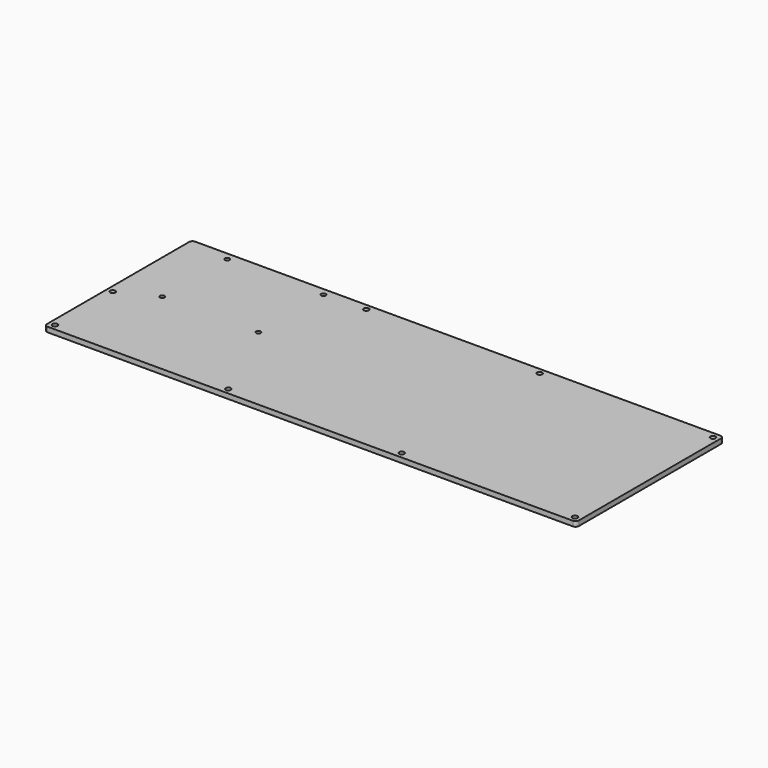
from build123d import *

# Parameters (mm, degrees)
SKETCH001_R   = 1.55
SKETCH001_R_2 = 1.375
PAD_DEPTH     = 3


with BuildPart() as part:
    # Sketch001 → Pad (new body)
    with BuildSketch(Plane.XY):
        with BuildLine():
            Line((-15.4775, 17.4775), (301.2275, 17.4775))
            ThreePointArc((303.2275, 15.4775), (302.641714, 16.891714), (301.2275, 17.4775))
            Line((303.2275, 15.4775), (303.2275, -91.6775))
            ThreePointArc((301.2275, -93.6775), (302.641714, -93.091714), (303.2275, -91.6775))
            Line((301.2275, -93.6775), (-15.4775, -93.6775))
            ThreePointArc((-17.4775, -91.6775), (-16.891714, -93.091714), (-15.4775, -93.6775))
            Line((-17.4775, -91.6775), (-17.4775, 15.4775))
            ThreePointArc((-15.4775, 17.4775), (-16.891714, 16.891714), (-17.4775, 15.4775))
        make_face()
        with Locations((-13.9055, -90.1055)):
            Circle(SKETCH001_R, mode=Mode.SUBTRACT)
        with Locations((195.135167, -90.1055)):
            Circle(SKETCH001_R, mode=Mode.SUBTRACT)
        with Locations((299.6555, -90.1055)):
            Circle(SKETCH001_R, mode=Mode.SUBTRACT)
        with Locations((90.614833, -90.1055)):
            Circle(SKETCH001_R, mode=Mode.SUBTRACT)
        with Locations((90.614833, 13.9055)):
            Circle(SKETCH001_R, mode=Mode.SUBTRACT)
        with Locations((195.135167, 13.9055)):
            Circle(SKETCH001_R, mode=Mode.SUBTRACT)
        with Locations((299.6555, 13.9055)):
            Circle(SKETCH001_R, mode=Mode.SUBTRACT)
        with Locations((7.5225, 12.9775)):
            Circle(SKETCH001_R_2, mode=Mode.SUBTRACT)
        with Locations((65.5225, 12.9775)):
            Circle(SKETCH001_R_2, mode=Mode.SUBTRACT)
        with Locations((7.5225, -36.0225)):
            Circle(SKETCH001_R_2, mode=Mode.SUBTRACT)
        with Locations((65.5225, -36.0225)):
            Circle(SKETCH001_R_2, mode=Mode.SUBTRACT)
        with Locations((-13.9055, -46.578)):
            Circle(SKETCH001_R, mode=Mode.SUBTRACT)
    extrude(amount=PAD_DEPTH)


solid = part.part
